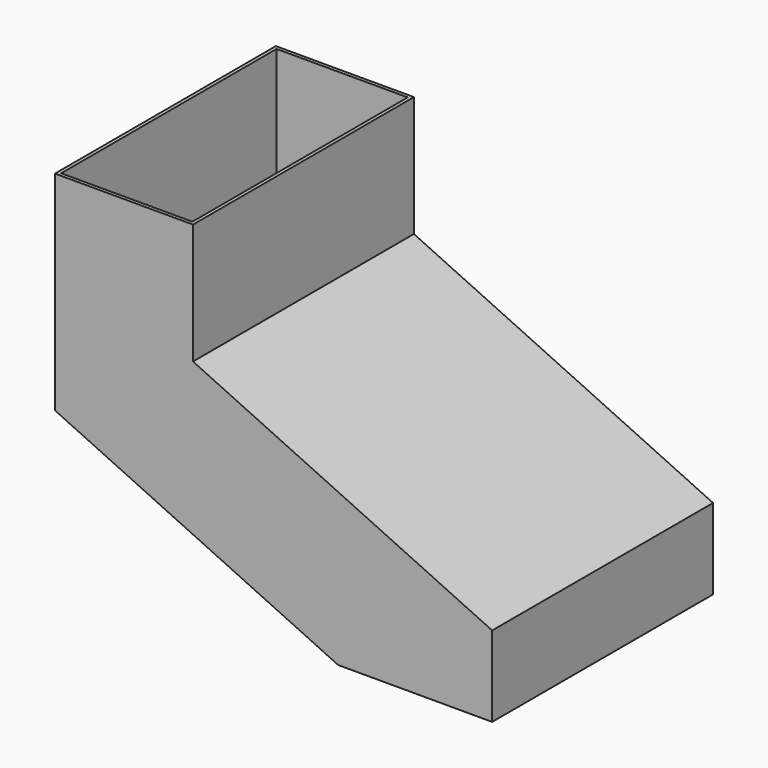
from build123d import *

# Parameters (mm, degrees)
F2_DEPTH = 120
F3_T     = -1.5


with BuildPart() as f2:
    # F1 (on Front) → F2 (new body)
    with BuildSketch(Plane.XZ):
        Polygon((23.4856910496, 108), (-36.5143089504, 108), (-36.5143089504, 17.3957799117), (86.5713382783, -40), (153.4856910496, -40), (153.4856910496, -5), (23.4856910496, 55.6199955601), align=None)
    extrude(amount=F2_DEPTH)

    # F3
    f3_openings = [f2.faces().sort_by_distance(p)[0] for p in [
        (-6.514309, -60, 108),
        (120.028515, -60, -40),
    ]]
    offset(amount=F3_T, openings=f3_openings, kind=Kind.INTERSECTION)


solid = f2.part
